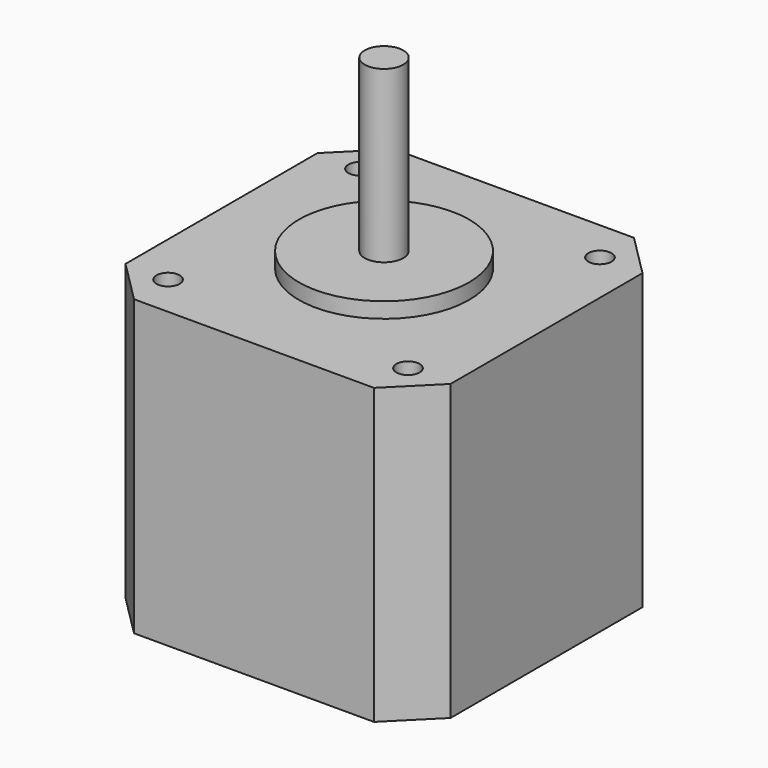
from build123d import *

# Parameters (mm, degrees)
PAD_DEPTH    = 38
SKETCH001_R  = 1.5
POCKET_DEPTH = 4.5
SKETCH002_R  = 11
PAD001_DEPTH = 2
SKETCH003_R  = 2.5
PAD002_DEPTH = 22


with BuildPart() as part:
    # Sketch → Pad (new body)
    with BuildSketch(Plane.XY):
        Polygon((-21, 15.5), (-15.5, 21), (15.5, 21), (21, 15.5), (21, -15.5), (15.5, -21), (-15.5, -21), (-21, -15.5), align=None)
    extrude(amount=PAD_DEPTH)

    # Sketch001 (on Face10 of Pad) → Pocket (cut)
    with BuildSketch(Plane.XY.offset(38)):
        with Locations((-15.5, 15.5)):
            Circle(SKETCH001_R)
        with Locations((15.5, 15.5)):
            Circle(SKETCH001_R)
        with Locations((15.5, -15.5)):
            Circle(SKETCH001_R)
        with Locations((-15.5, -15.5)):
            Circle(SKETCH001_R)
    extrude(amount=-POCKET_DEPTH, mode=Mode.SUBTRACT)

    # Sketch002 (on Face5 of Pocket) → Pad001 (join)
    with BuildSketch(Plane.XY.offset(38)):
        Circle(SKETCH002_R)
    extrude(amount=PAD001_DEPTH)

    # Sketch003 (on Face17 of Pad001) → Pad002 (join)
    with BuildSketch(Plane.XY.offset(40)):
        Circle(SKETCH003_R)
    extrude(amount=PAD002_DEPTH)


solid = part.part
